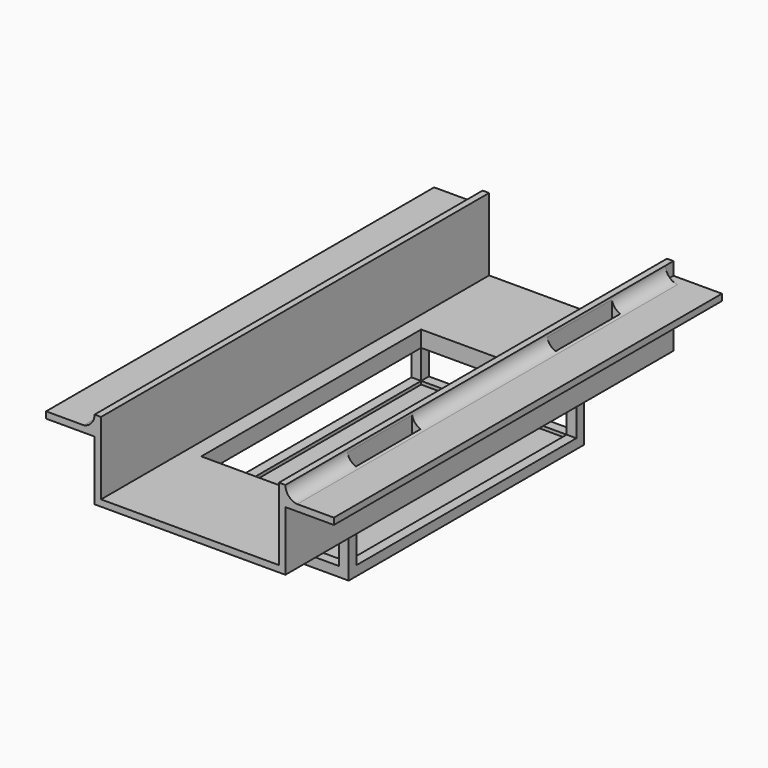
from build123d import *

# Parameters (mm, degrees)
F1_DEPTH  = 150
F2_DEPTH  = 147
F3_W      = 51
F3_H      = 91
F3_W_2    = 45
F3_H_2    = 85
F4_DEPTH  = 17
F5_DEPTH  = 15
F6_W      = 85
F6_H      = 9
F7_DEPTH  = 75
F8_W      = 45.0000017881
F8_H      = 9.0000017881
F9_DEPTH  = 95
F10_W     = 2.6170494705
F10_H     = 25
F11_DEPTH = 25


with BuildPart() as f1:
    # F0 (on Front) → F1 (new body)
    with BuildSketch(Plane.XZ):
        Polygon((-44.3471273035, 8.3293294263), (-29.3471273035, 8.3293294263), (-29.3471273035, 10.3293294263), (-30.6854649693, 10.3293294263), (-32.7072627842, 10.3293294263), (-44.3471273035, 10.3293294263), align=None)
        Polygon((-29.3471273035, -10.1195359603), (29.6528726965, -10.1195359603), (29.6528726965, 8.3293294263), (29.6528726965, 10.3293294263), (29.6528726965, 14.3293294263), (27.6528726965, 14.3293294263), (27.6528726965, 10.3293294263), (27.6528726965, 9.2171130797), (27.6528726965, -8.1195359603), (-27.3471273035, -8.1195359603), (-27.3471273035, 9.2171130797), (-27.3471273035, 10.3293294263), (-27.3471273035, 14.3293294263), (-29.3471273035, 14.3293294263), (-29.3471273035, 10.3293294263), (-29.3471273035, 8.3293294263), align=None)
        Polygon((29.6528726965, 10.3293294263), (29.6528726965, 8.3293294263), (44.6528726965, 8.3293294263), (44.6528726965, 10.3293294263), (41.5029401332, 10.3293294263), (33.3236008883, 10.3293294263), align=None)
    extrude(amount=-F1_DEPTH)

    # F0 (on Front) → F2 (join)
    with BuildSketch(Plane.XZ):
        with BuildLine():
            Line((29.6528726965, 14.3293294263), (29.6528726965, 10.3293294263))
            Line((29.6528726965, 10.3293294263), (33.3236008883, 10.3293294263))
            ThreePointArc((33.3236008883, 10.3293294263), (30.709634425, 11.6148200112), (29.6528726965, 14.3293294263))
        make_face()
        with BuildLine():
            Line((-30.6854649693, 10.3293294263), (-29.3471273035, 10.3293294263))
            Line((-29.3471273035, 10.3293294263), (-29.3471273035, 14.3293294263))
            ThreePointArc((-29.3471273035, 14.3293294263), (-30.2986339381, 11.7173134209), (-32.7072627842, 10.3293294263))
            Line((-32.7072627842, 10.3293294263), (-30.6854649693, 10.3293294263))
        make_face()
    extrude(amount=-F2_DEPTH)

    # F3 (on face) → F4 (join)
    with BuildSketch(Plane.XY.offset(-8.1195359603)):
        with Locations((0, 75.1699954271)):
            Rectangle(F3_W, F3_H)
        with Locations((0, 75.1699954271)):
            Rectangle(F3_W_2, F3_H_2, mode=Mode.SUBTRACT)
        with Locations((0, 75.1699954271)):
            Rectangle(F3_W_2, F3_H_2)
    extrude(amount=-F4_DEPTH)

    # F3 (on face) → F5 (cut)
    with BuildSketch(Plane.XY.offset(-8.1195359603)):
        with Locations((0, 75.1699954271)):
            Rectangle(F3_W_2, F3_H_2)
    extrude(amount=-F5_DEPTH, mode=Mode.SUBTRACT)

    # F6 (on face) → F7 (cut)
    with BuildSketch(Plane.YZ.offset(25.5)):
        with Locations((75.1699954271, -17.6195359603)):
            Rectangle(F6_W, F6_H)
    extrude(amount=-F7_DEPTH, mode=Mode.SUBTRACT)

    # F8 (on face) → F9 (cut)
    with BuildSketch(Plane.XZ.offset(-29.6699954271)):
        with Locations((0, -17.6195359603)):
            Rectangle(F8_W, F8_H)
    extrude(amount=-F9_DEPTH, mode=Mode.SUBTRACT)

    # F10 (on face) → F11 (cut)
    with BuildSketch(Plane(origin=(0, 0, 8.3293294263), x_dir=(1, 0, 0), z_dir=(0, 0, -1))):
        Polygon((-29.5194201171, -23.8912090659), (-29.7296848148, -23.8912090659), (-32.3471273035, -23.8912090659), (-32.3471273035, -48.8912090659), (-29.7296848148, -48.8912090659), (-29.5194201171, -48.8912090659), (-29.5194201171, -48.8749593496), align=None)
        with Locations((31.0386025682, -36.3912090659)):
            Rectangle(F10_W, F10_H)
        with Locations((31.0386025682, -113.6087909341)):
            Rectangle(F10_W, F10_H)
        Polygon((-29.5194201171, -101.1250406504), (-29.5194201171, -101.1087909341), (-29.7296848148, -101.1087909341), (-32.3471273035, -101.1087909341), (-32.3471273035, -126.1087909341), (-29.7296848148, -126.1087909341), (-29.5194201171, -126.1087909341), align=None)
    extrude(amount=-F11_DEPTH, mode=Mode.SUBTRACT)


solid = f1.part
